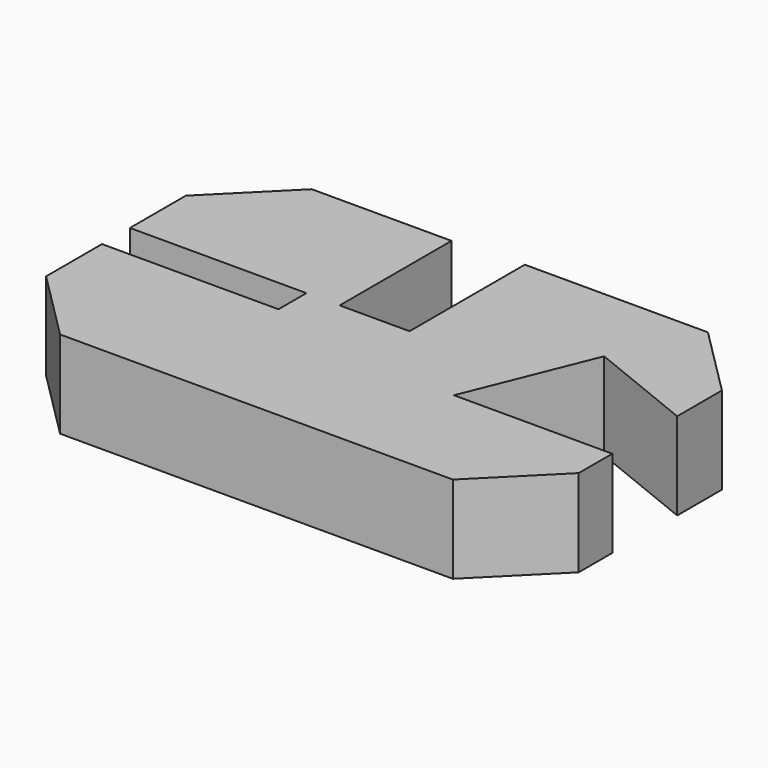
from build123d import *

# Parameters (mm, degrees)
F1_DEPTH = 25


with BuildPart() as f1:
    # F0 (on Top) → F1 (new body)
    with BuildSketch(Plane.XY):
        Polygon((-80.011122, -26.646302), (-60, -46.657424), (52.4, -46.657424), (72.408878, -26.644059), (72.408878, -14.644059), (27.108878, -14.644059), (41.531232, 21.05252), (72.411122, 8.576234), (72.411122, 24.576234), (52.4, 44.587356), (0, 44.587356), (0, 3.353698), (-20, 3.353698), (-20, 43.36482), (-60, 43.36482), (-80.011122, 23.353698), (-80.011122, 3.353698), (-29.511122, 3.353698), (-29.511122, -6.646302), (-80.011122, -6.646302), align=None)
    extrude(amount=F1_DEPTH)


solid = f1.part
